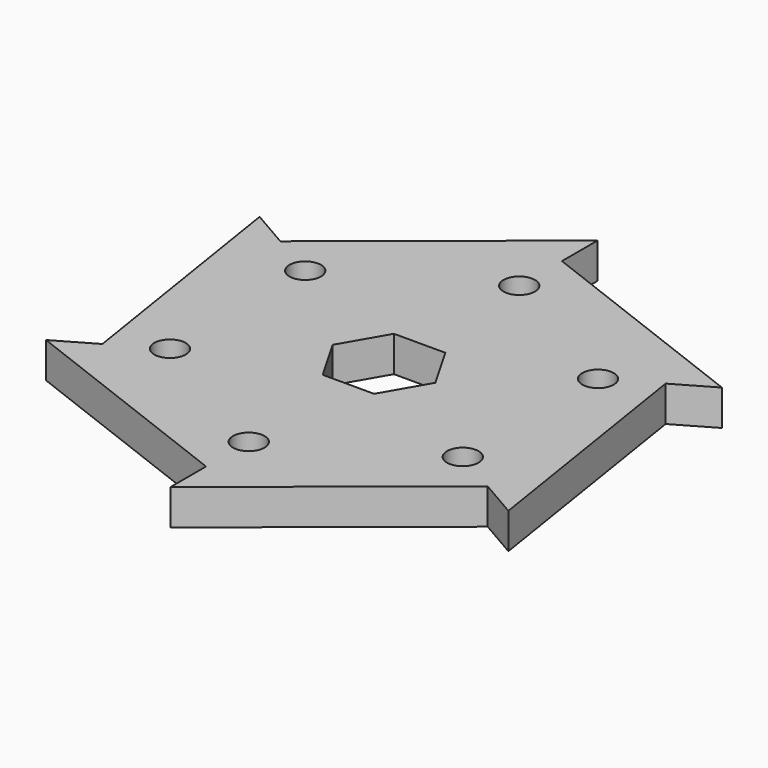
from build123d import *

# Parameters (mm, degrees)
F0_R     = 2.2479
F1_DEPTH = 5.08


with BuildPart() as f1:
    # F0 (on Top) → F1 (new body)
    with BuildSketch(Plane.XY):
        Polygon((0, 31.75), (0, 38.1), (-27.496307, 15.875), (-32.995568, 19.05), (-27.496307, -15.875), (-32.995568, -19.05), (0, -31.75), (0, -38.1), (27.496307, -15.875), (32.995568, -19.05), (27.496307, 15.875), (32.995568, 19.05), align=None)
        with Locations((-20.897193, -12.065)):
            Circle(F0_R, mode=Mode.SUBTRACT)
        with Locations((0, -24.13)):
            Circle(F0_R, mode=Mode.SUBTRACT)
        with Locations((20.897193, -12.065)):
            Circle(F0_R, mode=Mode.SUBTRACT)
        with Locations((-20.897193, 12.065)):
            Circle(F0_R, mode=Mode.SUBTRACT)
        Polygon((-7.332348, 0), (-3.666174, 6.35), (3.666174, 6.35), (7.332348, 0), (3.666174, -6.35), (-3.666174, -6.35), align=None, mode=Mode.SUBTRACT)
        with Locations((20.897193, 12.065)):
            Circle(F0_R, mode=Mode.SUBTRACT)
        with Locations((0, 24.13)):
            Circle(F0_R, mode=Mode.SUBTRACT)
    extrude(amount=F1_DEPTH)


solid = f1.part
